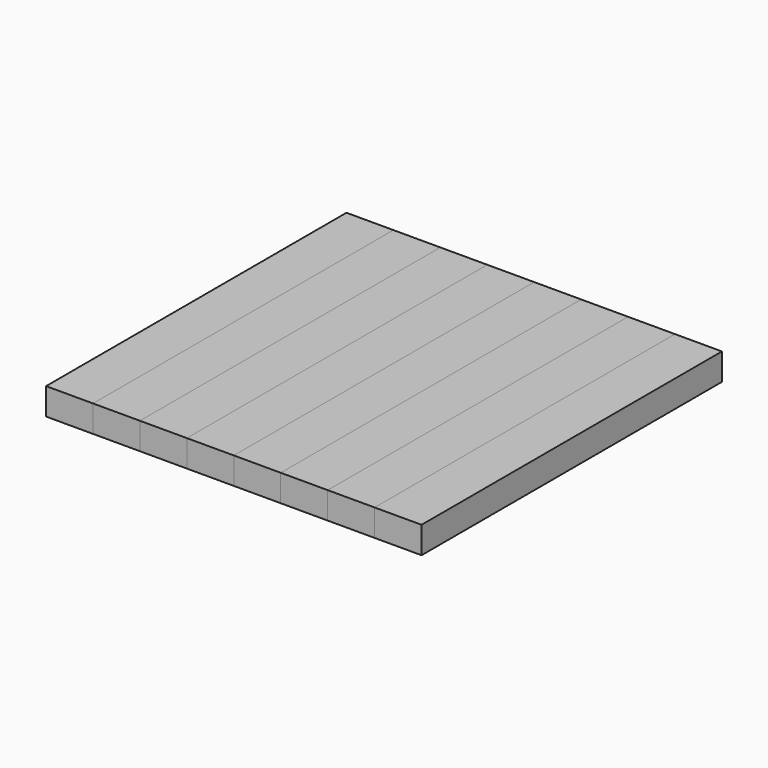
from build123d import *

# Parameters (mm, degrees)
F0_W     = 44.45
F0_H     = 44.45
F1_DEPTH = 25.4
F2_DEPTH = 25.4


with BuildPart() as f1:
    # F0 (on Top) → F1 (new body)
    with BuildSketch(Plane.XY):
        with Locations((-151.5340909091, 155.575)):
            Rectangle(F0_W, F0_H)
        with Locations((-151.5340909091, 111.125)):
            Rectangle(F0_W, F0_H)
        with Locations((-151.5340909091, 66.675)):
            Rectangle(F0_W, F0_H)
        with Locations((-151.5340909091, -22.225)):
            Rectangle(F0_W, F0_H)
        with Locations((-151.5340909091, -66.675)):
            Rectangle(F0_W, F0_H)
        with Locations((-151.5340909091, 22.225)):
            Rectangle(F0_W, F0_H)
        with Locations((-151.5340909091, -111.125)):
            Rectangle(F0_W, F0_H)
        with Locations((-151.5340909091, -155.575)):
            Rectangle(F0_W, F0_H)
    extrude(amount=F1_DEPTH)


with BuildPart() as f1b:
    # F0 (on Top) → F1, piece 2 (new body)
    with BuildSketch(Plane.XY):
        with Locations((-62.6340909091, -155.575)):
            Rectangle(F0_W, F0_H)
        with Locations((-62.6340909091, -111.125)):
            Rectangle(F0_W, F0_H)
        with Locations((-62.6340909091, -66.675)):
            Rectangle(F0_W, F0_H)
        with Locations((-62.6340909091, -22.225)):
            Rectangle(F0_W, F0_H)
        with Locations((-62.6340909091, 22.225)):
            Rectangle(F0_W, F0_H)
        with Locations((-62.6340909091, 66.675)):
            Rectangle(F0_W, F0_H)
        with Locations((-62.6340909091, 111.125)):
            Rectangle(F0_W, F0_H)
        with Locations((-62.6340909091, 155.575)):
            Rectangle(F0_W, F0_H)
    extrude(amount=F1_DEPTH)


with BuildPart() as f1c:
    # F0 (on Top) → F1, piece 3 (new body)
    with BuildSketch(Plane.XY):
        with Locations((26.2659090909, 155.575)):
            Rectangle(F0_W, F0_H)
        with Locations((26.2659090909, 111.125)):
            Rectangle(F0_W, F0_H)
        with Locations((26.2659090909, 66.675)):
            Rectangle(F0_W, F0_H)
        with Locations((26.2659090909, 22.225)):
            Rectangle(F0_W, F0_H)
        with Locations((26.2659090909, -22.225)):
            Rectangle(F0_W, F0_H)
        with Locations((26.2659090909, -66.675)):
            Rectangle(F0_W, F0_H)
        with Locations((26.2659090909, -111.125)):
            Rectangle(F0_W, F0_H)
        with Locations((26.2659090909, -155.575)):
            Rectangle(F0_W, F0_H)
    extrude(amount=F1_DEPTH)


with BuildPart() as f1d:
    # F0 (on Top) → F1, piece 4 (new body)
    with BuildSketch(Plane.XY):
        with Locations((115.1659090909, -155.575)):
            Rectangle(F0_W, F0_H)
        with Locations((115.1659090909, -111.125)):
            Rectangle(F0_W, F0_H)
        with Locations((115.1659090909, -66.675)):
            Rectangle(F0_W, F0_H)
        with Locations((115.1659090909, -22.225)):
            Rectangle(F0_W, F0_H)
        with Locations((115.1659090909, 22.225)):
            Rectangle(F0_W, F0_H)
        with Locations((115.1659090909, 66.675)):
            Rectangle(F0_W, F0_H)
        with Locations((115.1659090909, 111.125)):
            Rectangle(F0_W, F0_H)
        with Locations((115.1659090909, 155.575)):
            Rectangle(F0_W, F0_H)
    extrude(amount=F1_DEPTH)


with BuildPart() as f2:
    # F0 (on Top) → F2 (new body)
    with BuildSketch(Plane.XY):
        with Locations((-107.0840909091, 155.575)):
            Rectangle(F0_W, F0_H)
        with Locations((-107.0840909091, 111.125)):
            Rectangle(F0_W, F0_H)
        with Locations((-107.0840909091, 66.675)):
            Rectangle(F0_W, F0_H)
        with Locations((-107.0840909091, 22.225)):
            Rectangle(F0_W, F0_H)
        with Locations((-107.0840909091, -22.225)):
            Rectangle(F0_W, F0_H)
        with Locations((-107.0840909091, -66.675)):
            Rectangle(F0_W, F0_H)
        with Locations((-107.0840909091, -111.125)):
            Rectangle(F0_W, F0_H)
        with Locations((-107.0840909091, -155.575)):
            Rectangle(F0_W, F0_H)
    extrude(amount=F2_DEPTH)


with BuildPart() as f2b:
    # F0 (on Top) → F2, piece 2 (new body)
    with BuildSketch(Plane.XY):
        with Locations((-18.1840909091, -155.575)):
            Rectangle(F0_W, F0_H)
        with Locations((-18.1840909091, -111.125)):
            Rectangle(F0_W, F0_H)
        with Locations((-18.1840909091, -66.675)):
            Rectangle(F0_W, F0_H)
        with Locations((-18.1840909091, -22.225)):
            Rectangle(F0_W, F0_H)
        with Locations((-18.1840909091, 22.225)):
            Rectangle(F0_W, F0_H)
        with Locations((-18.1840909091, 66.675)):
            Rectangle(F0_W, F0_H)
        with Locations((-18.1840909091, 111.125)):
            Rectangle(F0_W, F0_H)
        with Locations((-18.1840909091, 155.575)):
            Rectangle(F0_W, F0_H)
    extrude(amount=F2_DEPTH)


with BuildPart() as f2c:
    # F0 (on Top) → F2, piece 3 (new body)
    with BuildSketch(Plane.XY):
        with Locations((70.7159090909, 155.575)):
            Rectangle(F0_W, F0_H)
        with Locations((70.7159090909, 111.125)):
            Rectangle(F0_W, F0_H)
        with Locations((70.7159090909, 66.675)):
            Rectangle(F0_W, F0_H)
        with Locations((70.7159090909, 22.225)):
            Rectangle(F0_W, F0_H)
        with Locations((70.7159090909, -22.225)):
            Rectangle(F0_W, F0_H)
        with Locations((70.7159090909, -66.675)):
            Rectangle(F0_W, F0_H)
        with Locations((70.7159090909, -111.125)):
            Rectangle(F0_W, F0_H)
        with Locations((70.7159090909, -155.575)):
            Rectangle(F0_W, F0_H)
    extrude(amount=F2_DEPTH)


with BuildPart() as f2d:
    # F0 (on Top) → F2, piece 4 (new body)
    with BuildSketch(Plane.XY):
        with Locations((159.6159090909, -155.575)):
            Rectangle(F0_W, F0_H)
        with Locations((159.6159090909, -111.125)):
            Rectangle(F0_W, F0_H)
        with Locations((159.6159090909, -66.675)):
            Rectangle(F0_W, F0_H)
        with Locations((159.6159090909, -22.225)):
            Rectangle(F0_W, F0_H)
        with Locations((159.6159090909, 22.225)):
            Rectangle(F0_W, F0_H)
        with Locations((159.6159090909, 66.675)):
            Rectangle(F0_W, F0_H)
        with Locations((159.6159090909, 111.125)):
            Rectangle(F0_W, F0_H)
        with Locations((159.6159090909, 155.575)):
            Rectangle(F0_W, F0_H)
    extrude(amount=F2_DEPTH)


solid = Compound([f1.part, f1b.part, f1c.part, f1d.part, f2.part, f2b.part, f2c.part, f2d.part])
